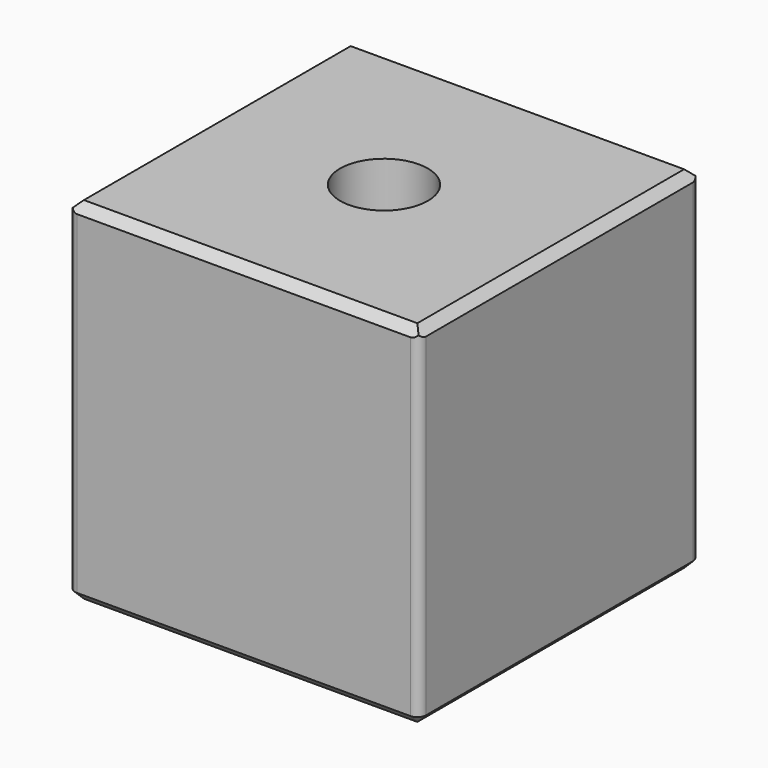
from build123d import *

# Parameters (mm, degrees)
F0_W     = 100
F0_H     = 100
F1_DEPTH = 50
F2_SIZE  = 2.5
F3_R     = 2.5
F4_SIZE  = 2.5
F5_R     = 12.5
F6_DEPTH = 100.001


with BuildPart() as f1:
    # F0 (on Front) → F1 (new body, symmetric)
    with BuildSketch(Plane.XZ):
        Rectangle(F0_W, F0_H)
    extrude(amount=F1_DEPTH, both=True)

    # F2
    f2_edges = [f1.edges().sort_by_distance(p)[0] for p in [
        (50, 0, 50),
        (0, -50, 50),
        (-50, 0, 50),
        (0, 50, 50),
    ]]
    chamfer(f2_edges, length=F2_SIZE)

    # F3
    f3_edges = [f1.edges().sort_by_distance(p)[0] for p in [
        (-50, 50, -1.25),
        (50, -50, -1.25),
        (-50, -50, -1.25),
        (50, 50, -1.25),
    ]]
    fillet(f3_edges, radius=F3_R)

    # F4
    f4_edges = [f1.edges().sort_by_distance(p)[0] for p in [
        (0, -50, -50),
        (0, 50, -50),
        (-50, 0, -50),
        (50, 0, -50),
    ]]
    chamfer(f4_edges, length=F4_SIZE)

    # F5 (on face) → F6 (cut, through all)
    with BuildSketch(Plane(origin=(0, 0, -50), x_dir=(1, 0, 0), z_dir=(0, 0, -1))):
        Circle(F5_R)
    extrude(amount=-F6_DEPTH, mode=Mode.SUBTRACT)


solid = f1.part
